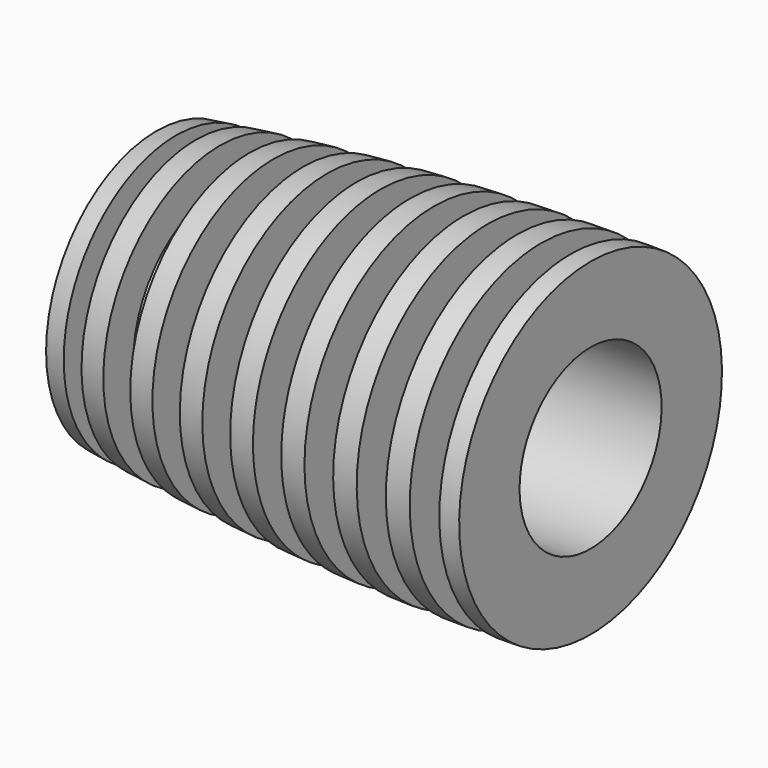
from build123d import *

# Parameters (mm, degrees)
F2_W   = 1
F2_H   = 4
F2_W_2 = 1.496277
F2_W_3 = 1.496278


with BuildPart() as f1:
    # F0 (on Front) → F1 (revolve)
    with BuildSketch(Plane.XZ):
        with BuildLine():
            Line((0, 7), (0, 4.5))
            Line((0, 4.5), (22, 4.5))
            Line((22, 4.5), (22, 8.325979))
            ThreePointArc((22, 8.325979), (10.975613, 8.067601), (0, 7))
        make_face()
    revolve(axis=Axis((11, 0, 0), (1, 0, 0)))

    # F2 (on Front) → F3 (revolve, cut)
    with BuildSketch(Plane.XZ):
        with Locations((1.5, 7.5)):
            Rectangle(F2_W, F2_H)
        with Locations((3.966147, 7.5)):
            Rectangle(F2_W_2, F2_H)
        with Locations((6.680433, 7.5)):
            Rectangle(F2_W_2, F2_H)
        with Locations((9.394718, 7.5)):
            Rectangle(F2_W_2, F2_H)
        with Locations((12.109004, 7.5)):
            Rectangle(F2_W_2, F2_H)
        with Locations((14.82329, 7.5)):
            Rectangle(F2_W_3, F2_H)
        with Locations((17.537575, 7.5)):
            Rectangle(F2_W_2, F2_H)
        with Locations((20.251862, 7.5)):
            Rectangle(F2_W_2, F2_H)
    revolve(axis=Axis((0, 0, 0), (1, 0, 0)), mode=Mode.SUBTRACT)


solid = f1.part
